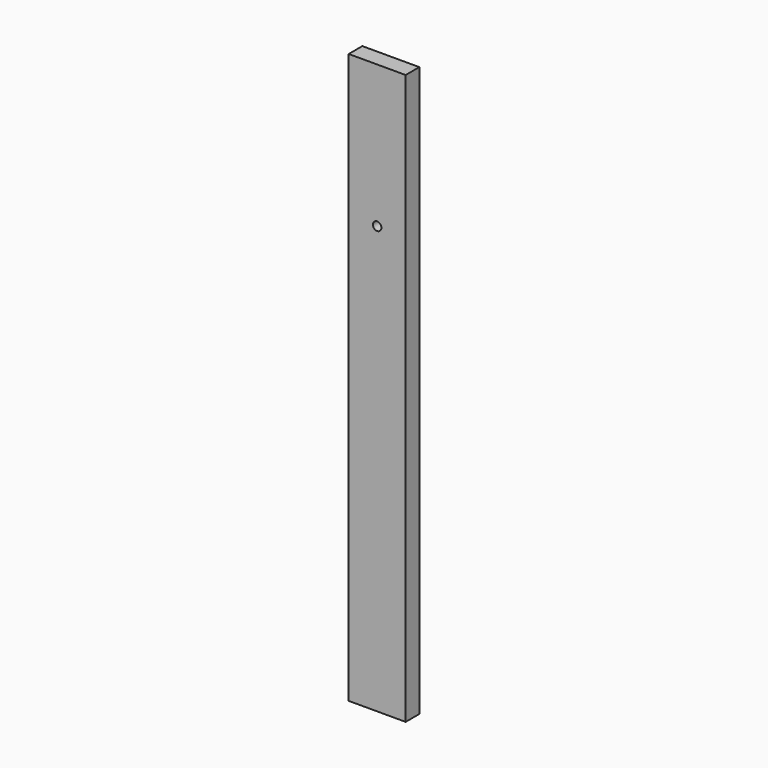
from build123d import *

# Parameters (mm, degrees)
F0_W     = 40
F0_H     = 12
F1_DEPTH = 400
F3_D     = 6


with BuildPart() as f1:
    # F0 (on Top) → F1 (new body)
    with BuildSketch(Plane.XY):
        with Locations((20, 6)):
            Rectangle(F0_W, F0_H)
    extrude(amount=F1_DEPTH)

    # F3 (through all)
    with Locations(Plane.XZ):
        with Locations((20, 300)):
            Hole(F3_D / 2)


solid = f1.part
